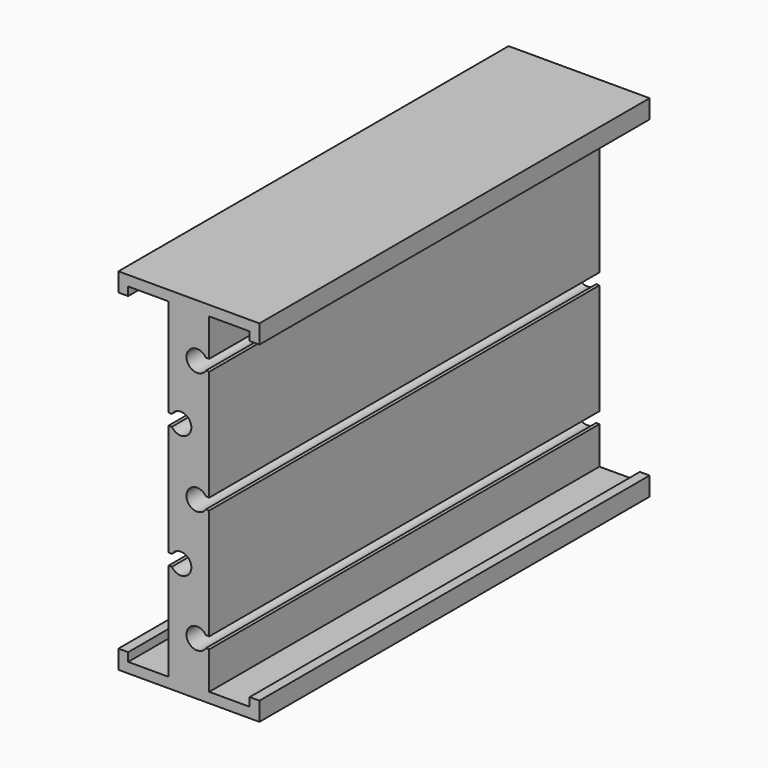
from build123d import *

# Parameters (mm, degrees)
F1_DEPTH = 152.4


with BuildPart() as f1:
    # F0 (on Front) → F1 (new body)
    with BuildSketch(Plane.XZ):
        with BuildLine():
            Line((0, 5.842), (0, 0))
            Line((0, 0), (44.069, 0))
            Line((44.069, 0), (44.069, 5.842))
            Line((44.069, 5.842), (41.021, 5.842))
            Line((41.021, 5.842), (41.021, 3.175))
            Line((41.021, 3.175), (28.3845, 3.175))
            Line((28.3845, 3.175), (28.3845, 14.859))
            Line((28.3845, 14.859), (27.356931, 14.859))
            ThreePointArc((27.356931, 14.859), (21.2725, 16.637), (27.356931, 18.415))
            Line((27.356931, 18.415), (28.3845, 18.415))
            Line((28.3845, 18.415), (28.3845, 53.0352))
            Line((28.3845, 53.0352), (27.356931, 53.0352))
            ThreePointArc((27.356931, 53.0352), (21.2725, 54.8132), (27.356931, 56.5912))
            Line((27.356931, 56.5912), (28.3845, 56.5912))
            Line((28.3845, 56.5912), (28.3845, 91.2114))
            Line((28.3845, 91.2114), (27.356931, 91.2114))
            ThreePointArc((27.356931, 91.2114), (21.2725, 92.9894), (27.356931, 94.7674))
            Line((27.356931, 94.7674), (28.3845, 94.7674))
            Line((28.3845, 94.7674), (28.3845, 106.4514))
            Line((28.3845, 106.4514), (41.021, 106.4514))
            Line((41.021, 106.4514), (41.021, 103.7844))
            Line((41.021, 103.7844), (44.069, 103.7844))
            Line((44.069, 103.7844), (44.069, 109.6264))
            Line((44.069, 109.6264), (0, 109.6264))
            Line((0, 109.6264), (0, 103.7844))
            Line((0, 103.7844), (3.048, 103.7844))
            Line((3.048, 103.7844), (3.048, 106.4514))
            Line((3.048, 106.4514), (15.6845, 106.4514))
            Line((15.6845, 106.4514), (15.6845, 75.8444))
            Line((15.6845, 75.8444), (16.712069, 75.8444))
            ThreePointArc((16.712069, 75.8444), (22.7965, 74.0664), (16.712069, 72.2884))
            Line((16.712069, 72.2884), (15.6845, 72.2884))
            Line((15.6845, 72.2884), (15.6845, 54.8132))
            Line((15.6845, 54.8132), (15.6845, 37.338))
            Line((15.6845, 37.338), (16.712069, 37.338))
            ThreePointArc((16.712069, 37.338), (22.7965, 35.56), (16.712069, 33.782))
            Line((16.712069, 33.782), (15.6845, 33.782))
            Line((15.6845, 33.782), (15.6845, 3.175))
            Line((15.6845, 3.175), (3.048, 3.175))
            Line((3.048, 3.175), (3.048, 5.842))
            Line((3.048, 5.842), (0, 5.842))
        make_face()
    extrude(amount=F1_DEPTH)


solid = f1.part
